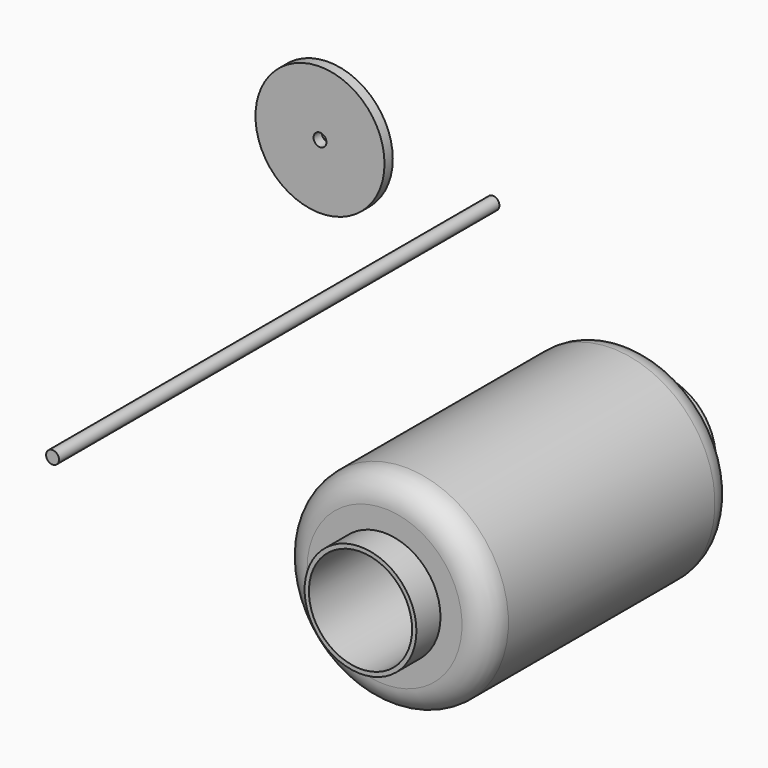
from build123d import *

# Parameters (mm, degrees)
F0_R     = 41.275
F0_R_2   = 38.1
F1_DEPTH = 276.225
F3_START = -25.4
F2_R     = 76.2
F2_R_2   = 41.275
F3_DEPTH = 228.6
F4_R     = 19.05
F5_R     = 47.625
F5_R_2   = 4.7625
F6_DEPTH = 7.62
F7_R     = 4.7625
F8_DEPTH = 406.4


with BuildPart() as f1:
    # F0 (on Front) → F1 (new body)
    with BuildSketch(Plane.XZ):
        Circle(F0_R)
        Circle(F0_R_2, mode=Mode.SUBTRACT)
    extrude(amount=F1_DEPTH)

    # F2 (on face) → F3 (join)
    with BuildSketch(Plane(origin=(0, 0, 0), x_dir=(-1, 0, 0), z_dir=(0, 1, 0)).offset(F3_START)):
        Circle(F2_R)
        Circle(F2_R_2, mode=Mode.SUBTRACT)
    extrude(amount=-F3_DEPTH)

    # F4
    f4_edges = [f1.edges().sort_by_distance(p)[0] for p in [
        (76.2, -25.4, 0),
        (76.2, -254, 0),
    ]]
    fillet(f4_edges, radius=F4_R)


with BuildPart() as f6:
    # F5 (on Front) → F6 (new body)
    with BuildSketch(Plane.XZ):
        with Locations((-244.7848618031, 116.9191375375)):
            Circle(F5_R)
        with Locations((-244.7848618031, 116.9191375375)):
            Circle(F5_R_2, mode=Mode.SUBTRACT)
    extrude(amount=F6_DEPTH)


with BuildPart() as f8:
    # F7 (on Front) → F8 (new body)
    with BuildSketch(Plane.XZ):
        with Locations((-123.2076063752, 112.2609972954)):
            Circle(F7_R)
    extrude(amount=F8_DEPTH)


solid = Compound([f1.part, f6.part, f8.part])
